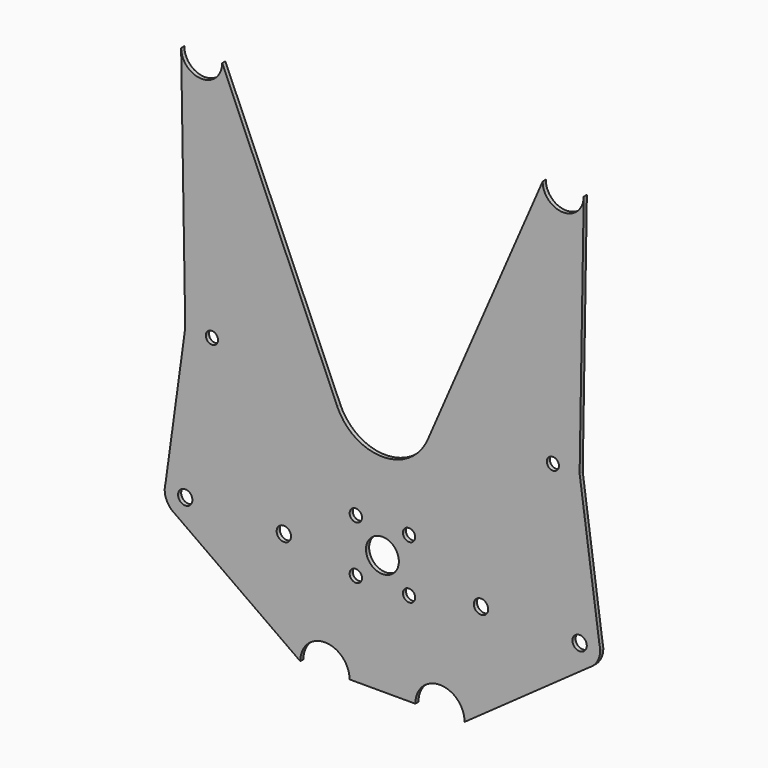
from build123d import *

# Parameters (mm, degrees)
F0_R     = 5.55625
F0_R_2   = 4.7625
F0_R_3   = 12.7
F0_R_4   = 4.719662
F0_R_5   = 4.704253
F1_DEPTH = 3.048
F2_DEPTH = 3.048


with BuildPart() as f1:
    # F0 (on Front) → F1 (new body)
    with BuildSketch(Plane.XZ):
        with BuildLine():
            ThreePointArc((-155.575, 294.705913), (-155.572772, 294.439949), (-155.566088, 294.174059))
            Line((-155.566088, 294.174059), (-155.575, 294.705913))
        make_face()
        with BuildLine():
            Line((155.575, 294.705913), (155.566088, 294.174059))
            ThreePointArc((155.566088, 294.174059), (155.572772, 294.439949), (155.575, 294.705913))
        make_face()
        with BuildLine():
            ThreePointArc((-63.5, -92.644087), (-44.45, -73.594087), (-25.4, -92.644087))
            Line((-25.4, -92.644087), (25.4, -92.644087))
            ThreePointArc((25.4, -92.644087), (44.45, -73.594087), (63.5, -92.644087))
            Line((63.5, -92.644087), (160.537703, -23.724692))
            Line((160.537703, -23.724692), (162.58925, -22.267616))
            ThreePointArc((162.58925, -22.267616), (166.783497, -16.812021), (168.275, -10.094087))
            Line((168.275, -10.094087), (167.684475, -5.804511))
            Line((167.684475, -5.804511), (152.4, 105.221913))
            Line((152.4, 105.221913), (155.566088, 294.174059))
            ThreePointArc((155.566088, 294.174059), (139.434035, 278.833141), (123.825, 294.705913))
            Line((123.825, 294.705913), (34.946903, 90.045485))
            ThreePointArc((34.946903, 90.045485), (0, 67.121913), (-34.946903, 90.045485))
            Line((-34.946903, 90.045485), (-123.825, 294.705913))
            ThreePointArc((-123.825, 294.705913), (-139.434035, 278.833141), (-155.566088, 294.174059))
            Line((-155.566088, 294.174059), (-152.4, 105.221913))
            Line((-152.4, 105.221913), (-167.684475, -5.804511))
            Line((-167.684475, -5.804511), (-168.275, -10.094087))
            ThreePointArc((-168.275, -10.094087), (-166.783497, -16.812021), (-162.58925, -22.267616))
            Line((-162.58925, -22.267616), (-160.537703, -23.724692))
            Line((-160.537703, -23.724692), (-63.5, -92.644087))
        make_face()
        with Locations((-152.4, -10.094087)):
            Circle(F0_R, mode=Mode.SUBTRACT)
        with Locations((-76.2, -10.094087)):
            Circle(F0_R, mode=Mode.SUBTRACT)
        with Locations((-20.574, -20.574)):
            Circle(F0_R_2, mode=Mode.SUBTRACT)
        with Locations((-20.574, 20.574)):
            Circle(F0_R_2, mode=Mode.SUBTRACT)
        with Locations((20.574, -20.574)):
            Circle(F0_R_2, mode=Mode.SUBTRACT)
        Circle(F0_R_3, mode=Mode.SUBTRACT)
        with Locations((76.2, -10.094087)):
            Circle(F0_R, mode=Mode.SUBTRACT)
        with Locations((152.4, -10.094087)):
            Circle(F0_R, mode=Mode.SUBTRACT)
        with Locations((20.574, 20.574)):
            Circle(F0_R_2, mode=Mode.SUBTRACT)
        with Locations((-131.7498, 105.221913)):
            Circle(F0_R_4, mode=Mode.SUBTRACT)
        with Locations((131.7498, 105.221913)):
            Circle(F0_R_5, mode=Mode.SUBTRACT)
        with BuildLine():
            ThreePointArc((-162.58925, -22.267616), (-161.592392, -23.036867), (-160.537703, -23.724692))
            Line((-160.537703, -23.724692), (-162.58925, -22.267616))
        make_face()
        with BuildLine():
            Line((162.58925, -22.267616), (160.537703, -23.724692))
            ThreePointArc((160.537703, -23.724692), (161.592392, -23.036867), (162.58925, -22.267616))
        make_face()
        with BuildLine():
            ThreePointArc((-167.684475, -5.804511), (-168.126676, -7.929071), (-168.275, -10.094087))
            Line((-168.275, -10.094087), (-167.684475, -5.804511))
        make_face()
        with BuildLine():
            Line((167.684475, -5.804511), (168.275, -10.094087))
            ThreePointArc((168.275, -10.094087), (168.126676, -7.929071), (167.684475, -5.804511))
        make_face()
    extrude(amount=F1_DEPTH)


with BuildPart() as f2:
    # F0 (on Front) → F2 (new body)
    with BuildSketch(Plane.XZ):
        with BuildLine():
            ThreePointArc((-155.575, 294.705913), (-155.572772, 294.439949), (-155.566088, 294.174059))
            Line((-155.566088, 294.174059), (-155.575, 294.705913))
        make_face()
        with BuildLine():
            Line((155.575, 294.705913), (155.566088, 294.174059))
            ThreePointArc((155.566088, 294.174059), (155.572772, 294.439949), (155.575, 294.705913))
        make_face()
        with BuildLine():
            ThreePointArc((-63.5, -92.644087), (-44.45, -73.594087), (-25.4, -92.644087))
            Line((-25.4, -92.644087), (25.4, -92.644087))
            ThreePointArc((25.4, -92.644087), (44.45, -73.594087), (63.5, -92.644087))
            Line((63.5, -92.644087), (160.537703, -23.724692))
            Line((160.537703, -23.724692), (162.58925, -22.267616))
            ThreePointArc((162.58925, -22.267616), (166.783497, -16.812021), (168.275, -10.094087))
            Line((168.275, -10.094087), (167.684475, -5.804511))
            Line((167.684475, -5.804511), (152.4, 105.221913))
            Line((152.4, 105.221913), (155.566088, 294.174059))
            ThreePointArc((155.566088, 294.174059), (139.434035, 278.833141), (123.825, 294.705913))
            Line((123.825, 294.705913), (34.946903, 90.045485))
            ThreePointArc((34.946903, 90.045485), (0, 67.121913), (-34.946903, 90.045485))
            Line((-34.946903, 90.045485), (-123.825, 294.705913))
            ThreePointArc((-123.825, 294.705913), (-139.434035, 278.833141), (-155.566088, 294.174059))
            Line((-155.566088, 294.174059), (-152.4, 105.221913))
            Line((-152.4, 105.221913), (-167.684475, -5.804511))
            Line((-167.684475, -5.804511), (-168.275, -10.094087))
            ThreePointArc((-168.275, -10.094087), (-166.783497, -16.812021), (-162.58925, -22.267616))
            Line((-162.58925, -22.267616), (-160.537703, -23.724692))
            Line((-160.537703, -23.724692), (-63.5, -92.644087))
        make_face()
        with Locations((-152.4, -10.094087)):
            Circle(F0_R, mode=Mode.SUBTRACT)
        with Locations((-76.2, -10.094087)):
            Circle(F0_R, mode=Mode.SUBTRACT)
        with Locations((-20.574, -20.574)):
            Circle(F0_R_2, mode=Mode.SUBTRACT)
        with Locations((-20.574, 20.574)):
            Circle(F0_R_2, mode=Mode.SUBTRACT)
        with Locations((20.574, -20.574)):
            Circle(F0_R_2, mode=Mode.SUBTRACT)
        Circle(F0_R_3, mode=Mode.SUBTRACT)
        with Locations((76.2, -10.094087)):
            Circle(F0_R, mode=Mode.SUBTRACT)
        with Locations((152.4, -10.094087)):
            Circle(F0_R, mode=Mode.SUBTRACT)
        with Locations((20.574, 20.574)):
            Circle(F0_R_2, mode=Mode.SUBTRACT)
        with Locations((-131.7498, 105.221913)):
            Circle(F0_R_4, mode=Mode.SUBTRACT)
        with Locations((131.7498, 105.221913)):
            Circle(F0_R_5, mode=Mode.SUBTRACT)
        with BuildLine():
            ThreePointArc((-162.58925, -22.267616), (-161.592392, -23.036867), (-160.537703, -23.724692))
            Line((-160.537703, -23.724692), (-162.58925, -22.267616))
        make_face()
        with BuildLine():
            Line((162.58925, -22.267616), (160.537703, -23.724692))
            ThreePointArc((160.537703, -23.724692), (161.592392, -23.036867), (162.58925, -22.267616))
        make_face()
        with BuildLine():
            ThreePointArc((-167.684475, -5.804511), (-168.126676, -7.929071), (-168.275, -10.094087))
            Line((-168.275, -10.094087), (-167.684475, -5.804511))
        make_face()
        with BuildLine():
            Line((167.684475, -5.804511), (168.275, -10.094087))
            ThreePointArc((168.275, -10.094087), (168.126676, -7.929071), (167.684475, -5.804511))
        make_face()
    extrude(amount=F2_DEPTH)


solid = Compound([f1.part, f2.part])
